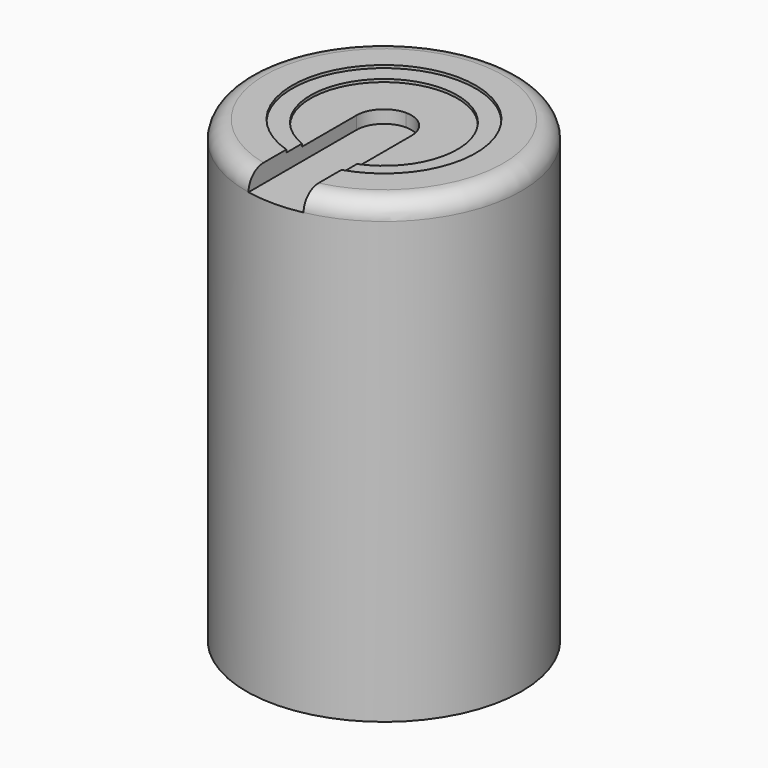
from build123d import *

# Parameters (mm, degrees)
F0_R      = 15
F1_DEPTH  = 50
F2_R      = 2
F3_R      = 10
F4_DEPTH  = 0.3
F6_DEPTH  = 2
F8_D      = 4.2
F8_DEPTH  = 10.4
F8_TIP    = 1.2618073
F9_R      = 8
F10_DEPTH = 0.3


with BuildPart() as f1:
    # F0 (on Top) → F1 (new body)
    with BuildSketch(Plane.XY):
        Circle(F0_R)
    extrude(amount=F1_DEPTH)

    # F2
    f2_edges = [f1.edges().sort_by_distance(p)[0] for p in [
        (-15, 0, 50),
    ]]
    fillet(f2_edges, radius=F2_R)

    # F3 (on face) → F4 (cut)
    with BuildSketch(Plane.XY.offset(50)):
        Circle(F3_R)
    extrude(amount=-F4_DEPTH, mode=Mode.SUBTRACT)

    # F5 (on face) → F6 (cut)
    with BuildSketch(Plane.XY.offset(50)):
        with BuildLine():
            Line((-3, 0), (-3, -9.5393920142))
            ThreePointArc((-3, -9.5393920142), (0, -10), (3, -9.5393920142))
            Line((3, -9.5393920142), (3, 0))
            ThreePointArc((3, 0), (2.1213203436, 2.1213203436), (0, 3))
            ThreePointArc((0, 3), (-2.1213203436, 2.1213203436), (-3, 0))
        make_face()
        with BuildLine():
            Line((-3, -9.5393920142), (-3, -12.6491106407))
            ThreePointArc((-3, -12.6491106407), (0, -13), (3, -12.6491106407))
            Line((3, -12.6491106407), (3, -9.5393920142))
            ThreePointArc((3, -9.5393920142), (0, -10), (-3, -9.5393920142))
        make_face()
        with BuildLine():
            Line((-3, -12.6491106407), (-3, -27))
            Line((-3, -27), (3, -27))
            Line((3, -27), (3, -12.6491106407))
            ThreePointArc((3, -12.6491106407), (0, -13), (-3, -12.6491106407))
        make_face()
    extrude(amount=-F6_DEPTH, mode=Mode.SUBTRACT)

    # F8
    with Locations(Plane(origin=(0, 0, 0), x_dir=(1, 0, 0), z_dir=(0, 0, -1))):
        with Locations((0, 0)):
            Hole(F8_D / 2, depth=F8_DEPTH)
            with Locations((0, 0, -(F8_DEPTH + F8_TIP / 2))):  # 118° drill point
                Cone(0, F8_D / 2, F8_TIP, mode=Mode.SUBTRACT)

    # F9 (on face) → F10 (cut)
    with BuildSketch(Plane.XY.offset(49.7)):
        Circle(F9_R)
    extrude(amount=-F10_DEPTH, mode=Mode.SUBTRACT)


solid = f1.part
